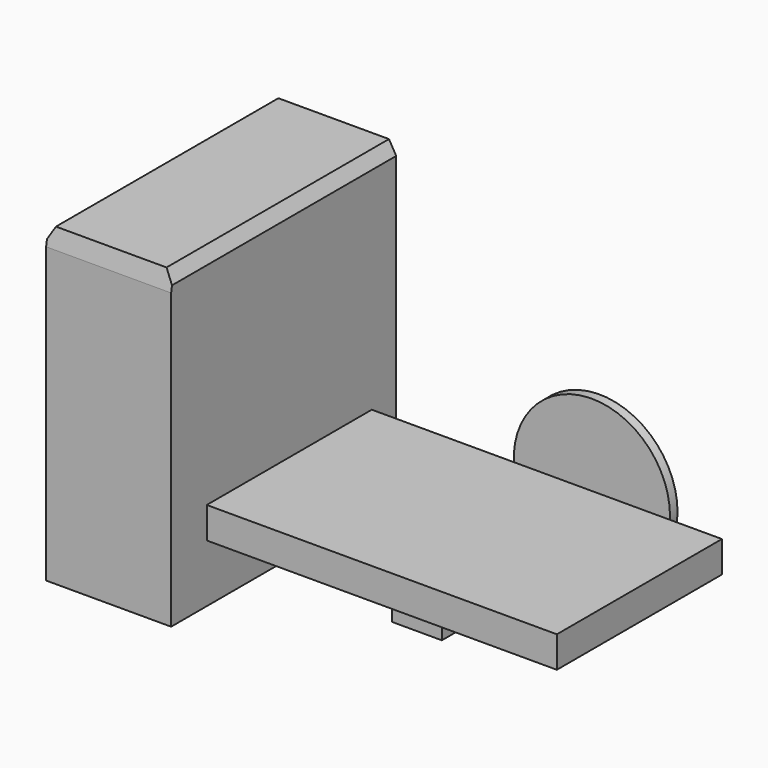
from build123d import *

# Parameters (mm, degrees)
F0_W      = 200
F0_H      = 500
F1_DEPTH  = 450
F2_R      = 125
F3_DEPTH  = 15
F4_W      = 80
F4_H      = 25
F5_DEPTH  = 350
F6_W      = 80
F6_H      = 50
F7_DEPTH  = 40
F8_W      = 560
F8_H      = 330
F9_DEPTH  = 50
F10_SIZE2 = 11.547005
F10_SIZE  = 20
F11_SIZE2 = 5.289809
F11_SIZE  = 30


with BuildPart() as f1:
    # F0 (on Front) → F1 (new body)
    with BuildSketch(Plane.XZ):
        with Locations((-1.542339, 71.218807)):
            Rectangle(F0_W, F0_H)
    extrude(amount=F1_DEPTH)

    # F10
    f10_edges = [f1.edges().sort_by_distance(p)[0] for p in [
        (98.457661, -225, 321.218807),
        (-101.542339, -225, 321.218807),
    ]]
    chamfer(f10_edges, length=F10_SIZE, length2=F10_SIZE2)

    # F11
    f11_edges = [f1.edges().sort_by_distance(p)[0] for p in [
        (-1.542339, -450, 321.218807),
    ]]
    chamfer(f11_edges, length=F11_SIZE, length2=F11_SIZE2)


with BuildPart() as f3:
    # F2 (on Front) → F3 (new body)
    with BuildSketch(Plane.XZ):
        with Locations((423.457661, -53.781193)):
            Circle(F2_R)
    extrude(amount=F3_DEPTH)

    # F4 (on face) → F5 (join)
    with BuildSketch(Plane.XZ.offset(15)):
        with Locations((423.457661, -101.281193)):
            Rectangle(F4_W, F4_H)
    extrude(amount=F5_DEPTH)

    # F6 (on face) → F7 (join)
    with BuildSketch(Plane.XY.offset(-88.781193)):
        with Locations((423.457661, -270)):
            Rectangle(F6_W, F6_H)
    extrude(amount=F7_DEPTH)

    # F8 (on face) → F9 (join)
    with BuildSketch(Plane.XY.offset(-48.781193)):
        with Locations((423.457661, -270)):
            Rectangle(F8_W, F8_H)
    extrude(amount=F9_DEPTH)


solid = Compound([f1.part, f3.part])
